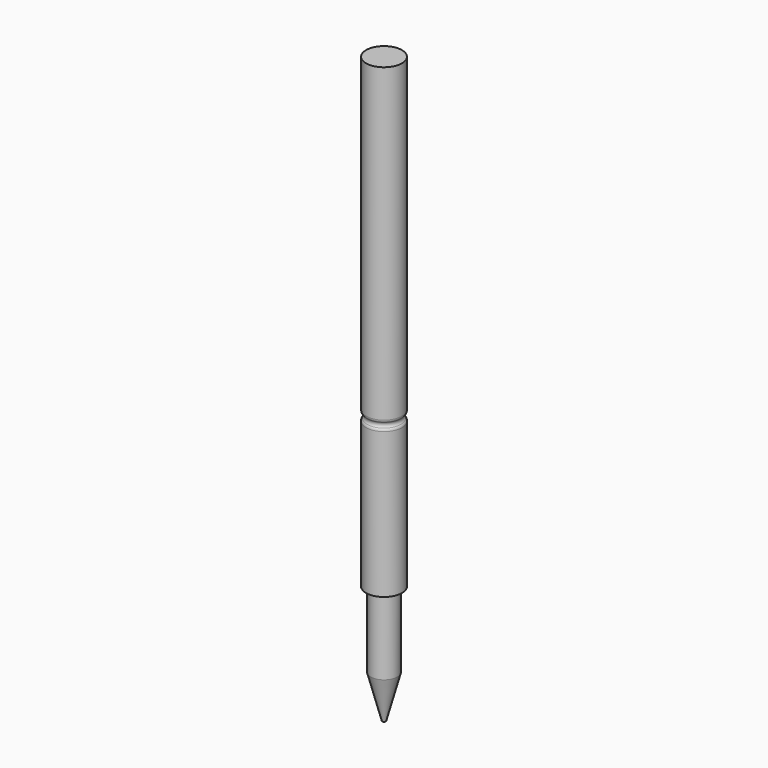
from build123d import *

# Parameters (mm, degrees)
SKETCH037_R      = 0.5
PAD003_DEPTH     = 13
SKETCH038_R      = 0.37
PAD004_DEPTH     = 3.3
CHAMFER004_ANGLE = 15
CHAMFER004_SIZE  = 1.2


with BuildPart() as part:
    # Sketch037 → Pad003 (new body)
    with BuildSketch(Plane.XY):
        Circle(SKETCH037_R)
    extrude(amount=PAD003_DEPTH)

    # Sketch048 → Groove (revolve, cut)
    with BuildSketch(Plane.YZ):
        with BuildLine():
            ThreePointArc((-0.5, 4.341421), (-0.492388, 4.303153), (-0.470711, 4.270711))
            ThreePointArc((-0.470711, 4.129289), (-0.441421, 4.2), (-0.470711, 4.270711))
            ThreePointArc((-0.470711, 4.129289), (-0.492388, 4.096847), (-0.5, 4.058579))
            Line((-0.5, 4.341421), (-0.5, 4.058579))
        make_face()
    revolve(axis=Axis((0, 0, 0), (0, 0, 1)), mode=Mode.SUBTRACT)

    # Sketch038 → Pad004 (join)
    with BuildSketch(Plane.XY):
        Circle(SKETCH038_R)
    extrude(amount=-PAD004_DEPTH)

    # Chamfer004
    chamfer004_edges = [part.edges().sort_by_distance(p)[0] for p in [
        (-0.37, 0, -3.3),
    ]]
    chamfer004_side = part.faces().sort_by_distance((-0.37, 0, -1.65))[0]
    chamfer(chamfer004_edges, length=CHAMFER004_SIZE, angle=CHAMFER004_ANGLE, reference=chamfer004_side)


with BuildPart() as part_1:
    # Body002 placement: moved
    add(part.part.moved(Location((72, -1, 8))))


with BuildPart() as part_2:
    # Clone008 placement: moved
    add(part_1.part.moved(Location((-72, 1, -8))))


with BuildPart() as part_3:
    # Body015 placement: moved
    add(part_2.part.moved(Location((70.03, 0.3, 8))))


solid = part_3.part
